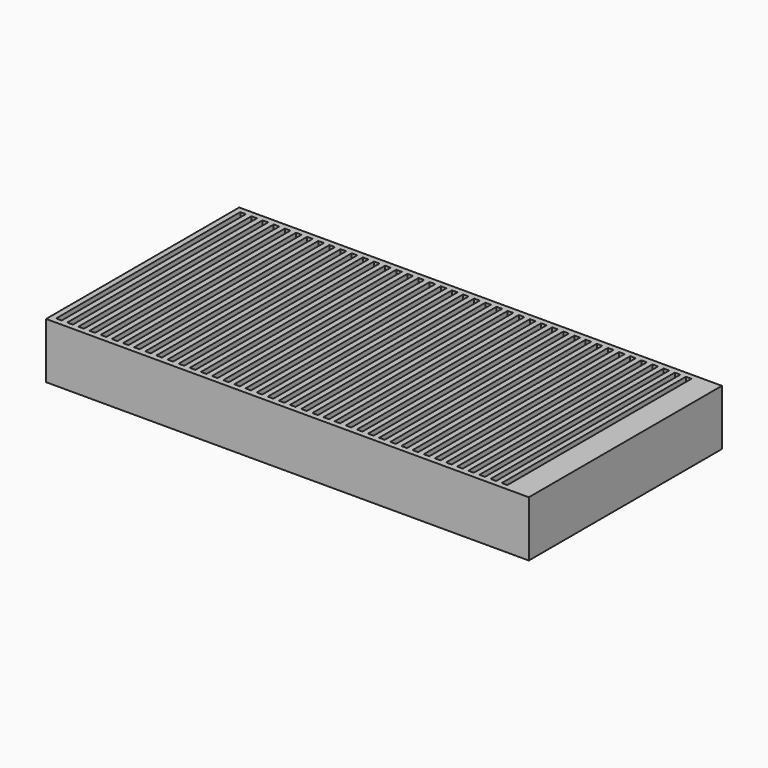
from build123d import *

# Parameters (mm, degrees)
F0_W     = 260
F0_H     = 130
F1_DEPTH = 30
F2_W     = 3
F2_H     = 62
F2_H_2   = 124
F3_DEPTH = 25.4


with BuildPart() as f1:
    # F0 (on Top) → F1 (new body)
    with BuildSketch(Plane.XY):
        Rectangle(F0_W, F0_H)
    extrude(amount=F1_DEPTH)

    # F2 (on face) → F3 (cut)
    with BuildSketch(Plane.XY.offset(30)):
        with Locations((-125.5, 31)):
            Rectangle(F2_W, F2_H)
        with Locations((-125.5, -31)):
            Rectangle(F2_W, F2_H)
        Polygon((-118, 62), (-121, 62), (-121, 4.026381), (-121, 0), (-118, 0), align=None)
        with Locations((-119.5, -31)):
            Rectangle(F2_W, F2_H)
        with Locations((-113.5, 31)):
            Rectangle(F2_W, F2_H)
        with Locations((-113.5, -31)):
            Rectangle(F2_W, F2_H)
        with Locations((-107.5, 31)):
            Rectangle(F2_W, F2_H)
        with Locations((-107.5, -31)):
            Rectangle(F2_W, F2_H)
        with Locations((-101.5, 31)):
            Rectangle(F2_W, F2_H)
        with Locations((-101.5, -31)):
            Rectangle(F2_W, F2_H)
        with Locations((-95.5, 31)):
            Rectangle(F2_W, F2_H)
        with Locations((-95.5, -31)):
            Rectangle(F2_W, F2_H)
        with Locations((-89.5, 31)):
            Rectangle(F2_W, F2_H)
        with Locations((-89.5, -31)):
            Rectangle(F2_W, F2_H)
        with Locations((-83.5, 31)):
            Rectangle(F2_W, F2_H)
        with Locations((-83.5, -31)):
            Rectangle(F2_W, F2_H)
        with Locations((-77.5, 31)):
            Rectangle(F2_W, F2_H)
        with Locations((-77.5, -31)):
            Rectangle(F2_W, F2_H)
        with Locations((-71.5, 0)):
            Rectangle(F2_W, F2_H_2)
        with Locations((-65.5, 0)):
            Rectangle(F2_W, F2_H_2)
        with Locations((-59.5, 0)):
            Rectangle(F2_W, F2_H_2)
        with Locations((-53.5, 0)):
            Rectangle(F2_W, F2_H_2)
        with Locations((-47.5, 0)):
            Rectangle(F2_W, F2_H_2)
        with Locations((-41.5, 0)):
            Rectangle(F2_W, F2_H_2)
        with Locations((-35.5, 0)):
            Rectangle(F2_W, F2_H_2)
        with Locations((-29.5, 0)):
            Rectangle(F2_W, F2_H_2)
        with Locations((-23.5, 0)):
            Rectangle(F2_W, F2_H_2)
        with Locations((-17.5, 0)):
            Rectangle(F2_W, F2_H_2)
        with Locations((-11.5, 0)):
            Rectangle(F2_W, F2_H_2)
        with Locations((-5.5, 0)):
            Rectangle(F2_W, F2_H_2)
        with Locations((0.5, 0)):
            Rectangle(F2_W, F2_H_2)
        with Locations((6.5, 0)):
            Rectangle(F2_W, F2_H_2)
        with Locations((12.5, 0)):
            Rectangle(F2_W, F2_H_2)
        with Locations((18.5, 0)):
            Rectangle(F2_W, F2_H_2)
        with Locations((24.5, 0)):
            Rectangle(F2_W, F2_H_2)
        with Locations((30.5, 0)):
            Rectangle(F2_W, F2_H_2)
        with Locations((36.5, 0)):
            Rectangle(F2_W, F2_H_2)
        with Locations((42.5, 0)):
            Rectangle(F2_W, F2_H_2)
        with Locations((48.5, 0)):
            Rectangle(F2_W, F2_H_2)
        with Locations((54.5, 0)):
            Rectangle(F2_W, F2_H_2)
        with Locations((60.5, 0)):
            Rectangle(F2_W, F2_H_2)
        with Locations((66.5, 0)):
            Rectangle(F2_W, F2_H_2)
        with Locations((72.5, 0)):
            Rectangle(F2_W, F2_H_2)
        with Locations((78.5, 0)):
            Rectangle(F2_W, F2_H_2)
        with Locations((84.5, 0)):
            Rectangle(F2_W, F2_H_2)
        with Locations((90.5, 0)):
            Rectangle(F2_W, F2_H_2)
        with Locations((96.5, 0)):
            Rectangle(F2_W, F2_H_2)
        with Locations((102.5, 0)):
            Rectangle(F2_W, F2_H_2)
        with Locations((108.5, 0)):
            Rectangle(F2_W, F2_H_2)
        with Locations((114.5, 0)):
            Rectangle(F2_W, F2_H_2)
    extrude(amount=-F3_DEPTH, mode=Mode.SUBTRACT)


solid = f1.part
